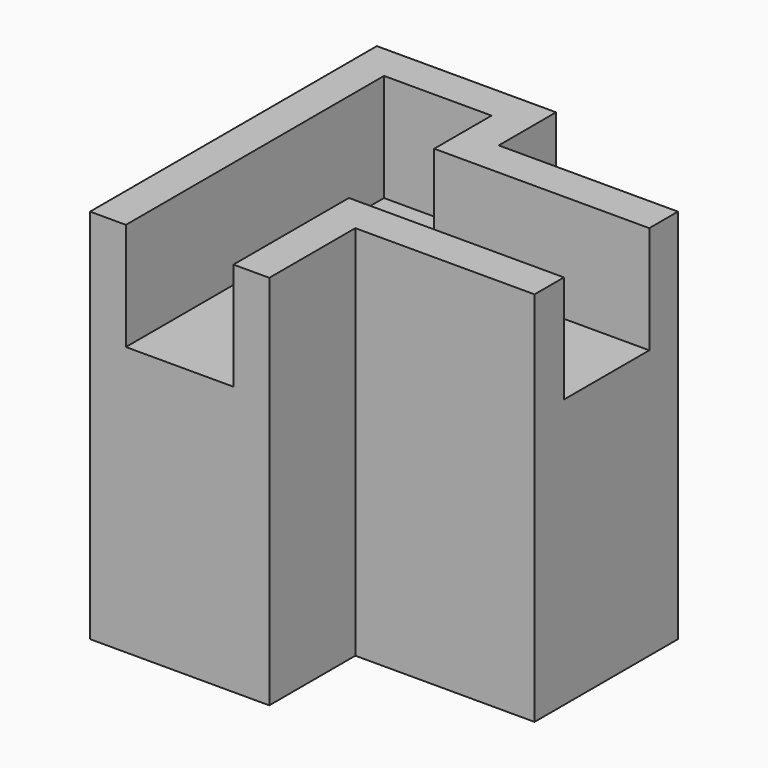
from build123d import *

# Parameters (mm, degrees)
F1_DEPTH = 15
F3_DEPTH = 6


with BuildPart() as f1:
    # F0 (on Top) → F1 (new body)
    with BuildSketch(Plane.XY):
        Polygon((-85.244147, 33.927911), (-93.244147, 33.927911), (-93.244147, 19.927911), (-93.244147, 13.927911), (-83.244147, 13.927911), (-83.244147, 19.927911), (-73.244147, 19.927911), (-73.244147, 29.927911), (-83.244147, 29.927911), (-83.244147, 33.927911), align=None)
    extrude(amount=F1_DEPTH)

    # F2 (on face) → F3 (join)
    with BuildSketch(Plane.XY.offset(15)):
        Polygon((-85.244147, 19.927911), (-85.244147, 13.927911), (-83.244147, 13.927911), (-83.244147, 19.927911), (-73.244147, 19.927911), (-73.244147, 21.978136), (-85.244147, 21.978136), align=None)
        Polygon((-91.244147, 33.927911), (-93.244147, 33.927911), (-93.244147, 31.927911), (-93.244147, 13.927911), (-91.244147, 13.927911), (-91.244147, 31.927911), (-85.244147, 31.927911), (-85.244147, 29.927911), (-85.244147, 27.927911), (-73.244147, 27.927911), (-73.244147, 29.927911), (-83.244147, 29.927911), (-83.244147, 31.927911), (-83.244147, 33.927911), (-85.244147, 33.927911), align=None)
    extrude(amount=F3_DEPTH)


solid = f1.part
